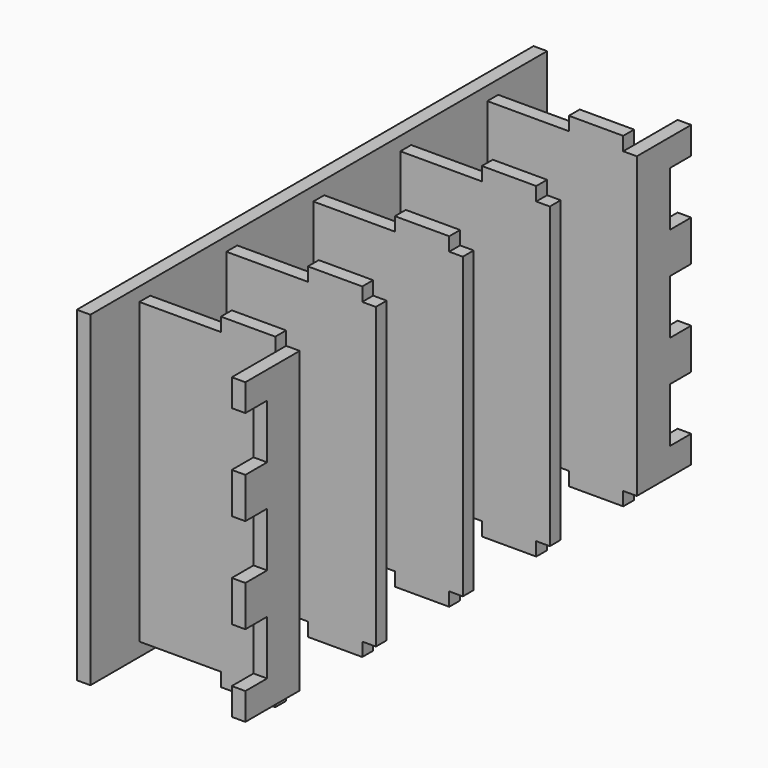
from build123d import *

# Parameters (mm, degrees)
F1_DEPTH = 609.6
F2_W     = 25.4
F2_H     = 101.6
F2_H_2   = 114.3
F3_DEPTH = 609.6
F4_W     = 152.4
F4_H     = 25.4
F4_W_2   = 25.4
F5_DEPTH = 1016
F7_DEPTH = 25.4
F8_DEPTH = 25.4


with BuildPart() as f1:
    # F0 (on Top) → F1 (new body)
    with BuildSketch(Plane.XY):
        Polygon((304.8, 838.2), (0, 838.2), (0, 419.1), (0, 0), (304.8, 0), (304.8, 25.4), (25.4, 25.4), (25.4, 203.2), (304.8, 203.2), (304.8, 215.9), (304.8, 228.6), (25.4, 228.6), (25.4, 406.4), (304.8, 406.4), (304.8, 419.1), (304.8, 431.8), (25.4, 431.8), (25.4, 609.6), (304.8, 609.6), (304.8, 622.3), (304.8, 635), (25.4, 635), (25.4, 812.8), (304.8, 812.8), align=None)
    extrude(amount=-F1_DEPTH)

    # F2 (on face) → F3 (join)
    with BuildSketch(Plane.XY):
        with Locations((292.1, 889)):
            Rectangle(F2_W, F2_H)
        with Locations((12.7, 895.35)):
            Rectangle(F2_W, F2_H_2)
        with Locations((12.7, -57.15)):
            Rectangle(F2_W, F2_H_2)
        with Locations((292.1, -50.8)):
            Rectangle(F2_W, F2_H)
    extrude(amount=-F3_DEPTH)

    # F4 (on Front) → F5 (cut, symmetric)
    with BuildSketch(Plane.XZ):
        with Locations((101.6, -12.7)):
            Rectangle(F4_W, F4_H)
        with Locations((292.1, -12.7)):
            Rectangle(F4_W_2, F4_H)
        with Locations((101.6, -596.9)):
            Rectangle(F4_W, F4_H)
        with Locations((292.1, -596.9)):
            Rectangle(F4_W_2, F4_H)
    extrude(amount=F5_DEPTH, both=True, mode=Mode.SUBTRACT)

    # F6 (on face) → F7 (cut, through all)
    with BuildSketch(Plane.YZ.offset(304.8)):
        Polygon((-101.6, -254), (-101.6, -304.8), (-101.6, -355.6), (-50.8, -355.6), (-50.8, -304.8), (-50.8, -254), align=None)
        Polygon((-50.8, -127), (-50.8, -76.2), (-101.6, -76.2), (-101.6, -127), (-101.6, -177.8), (-50.8, -177.8), align=None)
        Polygon((-101.6, -533.4), (-50.8, -533.4), (-50.8, -482.6), (-50.8, -431.8), (-101.6, -431.8), (-101.6, -482.6), align=None)
        Polygon((889.8554785728, -355.6), (940.6554785728, -355.6), (940.6554785728, -304.8), (940.6554785728, -254), (889.8554785728, -254), (889.8554785728, -304.8), align=None)
        Polygon((940.6554785728, -533.4), (940.6554785728, -482.6), (940.6554785728, -431.8), (889.8554785728, -431.8), (889.8554785728, -482.6), (889.8554785728, -533.4), align=None)
        Polygon((889.8554785728, -177.8), (940.6554785728, -177.8), (940.6554785728, -127), (940.6554785728, -76.2), (889.8554785728, -76.2), (889.8554785728, -127), align=None)
    extrude(amount=-F7_DEPTH, mode=Mode.SUBTRACT)

    # F6 (on face) → F8 (cut)
    with BuildSketch(Plane.YZ.offset(304.8)):
        Polygon((-101.6, -254), (-101.6, -304.8), (-101.6, -355.6), (-50.8, -355.6), (-50.8, -304.8), (-50.8, -254), align=None)
        Polygon((-50.8, -127), (-50.8, -76.2), (-101.6, -76.2), (-101.6, -127), (-101.6, -177.8), (-50.8, -177.8), align=None)
        Polygon((-101.6, -533.4), (-50.8, -533.4), (-50.8, -482.6), (-50.8, -431.8), (-101.6, -431.8), (-101.6, -482.6), align=None)
        Polygon((889.8554785728, -355.6), (940.6554785728, -355.6), (940.6554785728, -304.8), (940.6554785728, -254), (889.8554785728, -254), (889.8554785728, -304.8), align=None)
        Polygon((940.6554785728, -533.4), (940.6554785728, -482.6), (940.6554785728, -431.8), (889.8554785728, -431.8), (889.8554785728, -482.6), (889.8554785728, -533.4), align=None)
        Polygon((889.8554785728, -177.8), (940.6554785728, -177.8), (940.6554785728, -127), (940.6554785728, -76.2), (889.8554785728, -76.2), (889.8554785728, -127), align=None)
    extrude(amount=-F8_DEPTH, mode=Mode.SUBTRACT)


solid = f1.part
